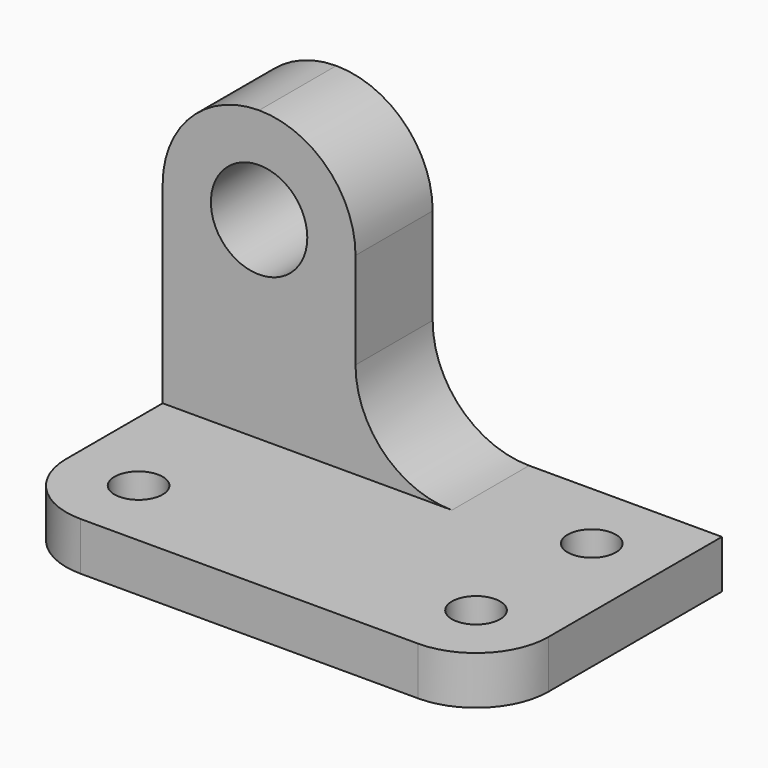
from build123d import *

# Parameters (mm, degrees)
F0_W      = 63.5
F0_H      = 44.45
F1_DEPTH  = 38.1
F2_W      = 63.5
F2_H      = 38.1
F3_DEPTH  = 25.4
F4_R      = 3.175
F5_DEPTH  = 25.4
F7_DEPTH  = 25.4
F8_R      = 6.35
F9_DEPTH  = 25.4
F10_R     = 3.175
F11_DEPTH = 25.4


with BuildPart() as f1:
    # F0 (on Front) → F1 (new body)
    with BuildSketch(Plane.XZ):
        with Locations((-39.0702815679, 22.225)):
            Rectangle(F0_W, F0_H)
    extrude(amount=F1_DEPTH)

    # F2 (on face) → F3 (cut)
    with BuildSketch(Plane.XZ.offset(38.1)):
        with Locations((-39.0702815679, 25.4)):
            Rectangle(F2_W, F2_H)
    extrude(amount=-F3_DEPTH, mode=Mode.SUBTRACT)

    # F4 (on face) → F5 (cut)
    with BuildSketch(Plane.XY.offset(6.35)):
        with BuildLine():
            ThreePointArc((-61.2952815679, -38.1), (-68.0304736587, -35.3101920908), (-70.8202815679, -28.575))
            Line((-70.8202815679, -28.575), (-70.8202815679, -38.1))
            Line((-70.8202815679, -38.1), (-61.2952815679, -38.1))
        make_face()
        with Locations((-61.2952815679, -28.575)):
            Circle(F4_R)
        with Locations((-16.8452815679, -28.575)):
            Circle(F4_R)
        with BuildLine():
            ThreePointArc((-7.3202815679, -28.575), (-10.1123963213, -35.3078852467), (-16.8452815679, -38.1))
            Line((-16.8452815679, -38.1), (-7.3202815679, -38.1))
            Line((-7.3202815679, -38.1), (-7.3202815679, -28.575))
        make_face()
    extrude(amount=-F5_DEPTH, mode=Mode.SUBTRACT)

    # F6 (on face) → F7 (cut)
    with BuildSketch(Plane.XZ.offset(12.7)):
        Polygon((-32.7202815679, 19.05), (-32.7202815679, 6.35), (-7.3202815679, 6.35), (-7.3202815679, 44.45), (-45.4202815679, 44.45), (-45.4202815679, 19.05), align=None)
    extrude(amount=-F7_DEPTH, mode=Mode.SUBTRACT)

    # F8 (on face) → F9 (cut)
    with BuildSketch(Plane.XZ.offset(12.7)):
        with Locations((-58.1202815679, 31.75)):
            Circle(F8_R)
        with BuildLine():
            ThreePointArc((-58.1202815679, 44.45), (-49.1400254469, 40.7302561211), (-45.4202815679, 31.75))
            Line((-45.4202815679, 31.75), (-45.4202815679, 44.45))
            Line((-45.4202815679, 44.45), (-58.1202815679, 44.45))
        make_face()
        with BuildLine():
            ThreePointArc((-70.8202815679, 31.75), (-67.100537689, 40.7302561211), (-58.1202815679, 44.45))
            Line((-58.1202815679, 44.45), (-70.8202815679, 44.45))
            Line((-70.8202815679, 44.45), (-70.8202815679, 31.75))
        make_face()
        with BuildLine():
            Line((-32.7202815679, 19.05), (-45.4202815679, 19.05))
            ThreePointArc((-45.4202815679, 19.05), (-41.700537689, 10.0697438789), (-32.7202815679, 6.35))
            Line((-32.7202815679, 6.35), (-32.7202815679, 19.05))
        make_face()
    extrude(amount=-F9_DEPTH, mode=Mode.SUBTRACT)

    # F10 (on face) → F11 (cut)
    with BuildSketch(Plane.XY.offset(6.35)):
        with Locations((-16.8452815679, -9.525)):
            Circle(F10_R)
    extrude(amount=-F11_DEPTH, mode=Mode.SUBTRACT)


solid = f1.part
